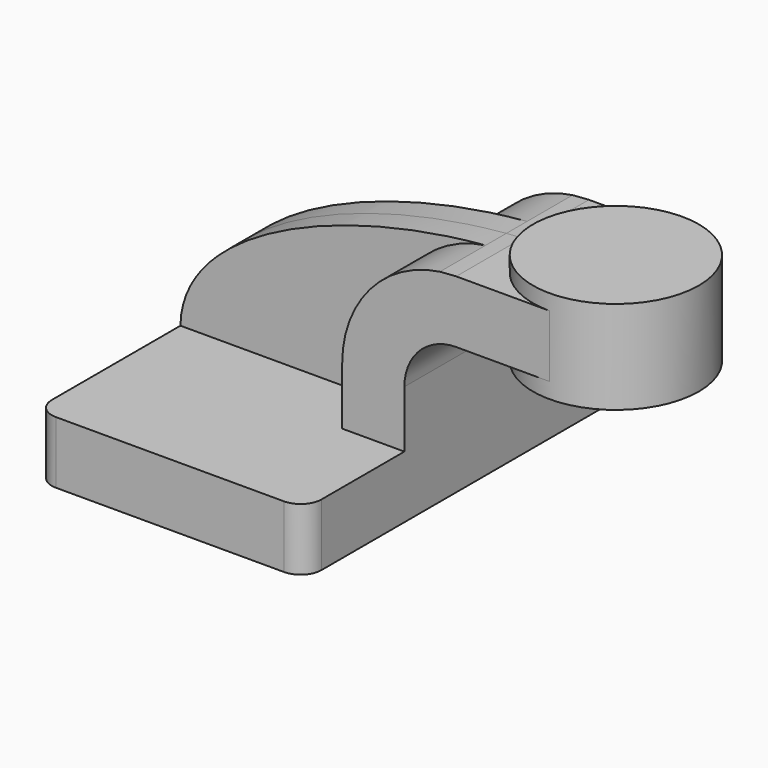
from build123d import *

# Parameters (mm, degrees)
F1_DEPTH = 63.5
F2_DEPTH = 25.4
F3_DEPTH = 7.9375
F0_W     = 25.4
F0_H     = 19.05
F4_DEPTH = 25.4
F6_R     = 6.35


with BuildPart() as f1:
    # F0 (on Front) → F1 (new body, symmetric)
    with BuildSketch(Plane.XZ):
        Polygon((22.225, 9.525), (-41.275, 9.525), (-41.275, -9.525), (41.275, -9.525), (41.275, 9.525), align=None)
    extrude(amount=F1_DEPTH, both=True)

    # F0 (on Front) → F2 (join, symmetric)
    with BuildSketch(Plane.XZ):
        with BuildLine():
            Line((22.225, 27.0002), (22.225, 9.525))
            Line((22.225, 9.525), (41.275, 9.525))
            Line((41.275, 9.525), (41.275, 27.0002))
            ThreePointArc((41.275, 27.0002), (45.9246798487, 38.2255201513), (57.15, 42.8752))
            Line((57.15, 42.8752), (60.325, 42.8752))
            Line((60.325, 42.8752), (60.325, 61.9252))
            Line((60.325, 61.9252), (57.15, 61.9252))
            add(Edge.make_bspline(
                [(52.1673264767, 61.5679391445), (53.8333829915, 61.7094866202), (55.4951364751, 61.8287124743), (57.15, 61.9252)],
                knots=[107.5205143307, 107.5205143307, 107.5205143307, 107.5205143307, 111.5045361635, 111.5045361635, 111.5045361635, 111.5045361635], degree=3))
            ThreePointArc((52.1673264767, 61.5679391445), (30.7513684275, 49.8665043822), (22.225, 27.0002))
        make_face()
    extrude(amount=F2_DEPTH, both=True)

    # F0 (on Front) → F3 (join, symmetric)
    with BuildSketch(Plane.XZ):
        with BuildLine():
            add(Edge.make_bspline(
                [(-41.275, 9.525), (-40.8936231026, 37.6698712219), (7.2039048673, 57.7478653509), (52.1673264767, 61.5679391445)],
                knots=[0, 0, 0, 0, 107.5205143307, 107.5205143307, 107.5205143307, 107.5205143307], degree=3))
            Line((-41.275, 9.525), (22.225, 9.525))
            Line((22.225, 9.525), (22.225, 27.0002))
            ThreePointArc((22.225, 27.0002), (30.7513684275, 49.8665043822), (52.1673264767, 61.5679391445))
        make_face()
    extrude(amount=F3_DEPTH, both=True)

    # F0 (on Front) → F4 (join, symmetric)
    with BuildSketch(Plane.XZ):
        with Locations((73.025, 52.4002)):
            Rectangle(F0_W, F0_H)
    extrude(amount=F4_DEPTH, both=True)

    # F0 (on Front) → F5 (revolve)
    with BuildSketch(Plane.XZ):
        Polygon((85.725, 66.675), (85.725, 61.9252), (85.725, 42.8752), (85.725, 38.1), (111.125, 38.1), (111.125, 66.675), align=None)
    revolve(axis=Axis((85.725, 0, 52.3875), (0, 0, 1)))

    # F6
    f6_edges = [f1.edges().sort_by_distance(p)[0] for p in [
        (-41.275, -63.5, 0),
        (41.275, -63.5, 0),
        (41.275, 63.5, 0),
        (-41.275, 63.5, 0),
    ]]
    fillet(f6_edges, radius=F6_R)


solid = f1.part
